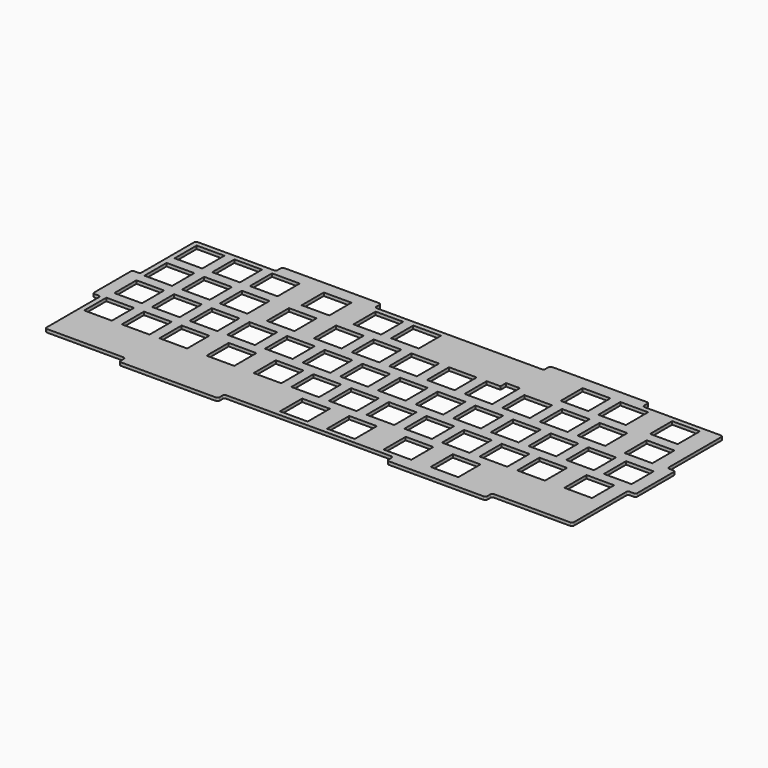
from build123d import *

# Parameters (mm, degrees)
SKETCH002_W     = 14
SKETCH002_H     = 14
PAD001_DEPTH    = 1.6
SKETCH003_W     = 14
SKETCH003_H     = 14
POCKET001_DEPTH = 5
SKETCH004_W     = 14
SKETCH004_H     = 14
POCKET002_DEPTH = 5
SKETCH005_W     = 14
SKETCH005_H     = 14
POCKET003_DEPTH = 5
SKETCH006_W     = 14
SKETCH006_H     = 14
POCKET004_DEPTH = 5
FILLET_R        = 1
SKETCH040_W     = 7
SKETCH040_H     = 3.5
POCKET021_DEPTH = 5


with BuildPart() as plate:
    # Sketch002 → Pad001 (new body)
    with BuildSketch(Plane.XY):
        Polygon((-133.35, 47.625), (-92.725, 47.625), (-92.725, 51.625), (-42.725, 51.625), (-42.725, 47.625), (42.725, 47.625), (42.725, 51.625), (92.725, 51.625), (92.725, 47.625), (133.35, 47.625), (133.35, 12.5), (137.35, 12.5), (137.35, -12.5), (133.35, -12.5), (133.35, -47.625), (92.725, -47.625), (92.725, -51.625), (42.725, -51.625), (42.725, -47.625), (-42.725, -47.625), (-42.725, -51.625), (-92.725, -51.625), (-92.725, -47.625), (-133.35, -47.625), (-133.35, -12.5), (-137.35, -12.5), (-137.35, 12.5), (-133.35, 12.5), align=None)
        with Locations((-71.4375, 38.1)):
            Rectangle(SKETCH002_W, SKETCH002_H, mode=Mode.SUBTRACT)
        with Locations((14.2875, 38.1)):
            Rectangle(SKETCH002_W, SKETCH002_H, mode=Mode.SUBTRACT)
        with Locations((33.3375, 38.1)):
            Rectangle(SKETCH002_W, SKETCH002_H, mode=Mode.SUBTRACT)
        with Locations((-90.4875, 38.1)):
            Rectangle(SKETCH002_W, SKETCH002_H, mode=Mode.SUBTRACT)
        with Locations((-116.68125, 38.1)):
            Rectangle(SKETCH002_W, SKETCH002_H, mode=Mode.SUBTRACT)
        with Locations((59.53125, 38.1)):
            Rectangle(SKETCH002_W, SKETCH002_H, mode=Mode.SUBTRACT)
        with Locations((85.725, 38.1)):
            Rectangle(SKETCH002_W, SKETCH002_H, mode=Mode.SUBTRACT)
        Polygon((97.775, 45.1), (111.775, 45.1), (111.775, 31.1), (97.77505, 31.1), align=None, mode=Mode.SUBTRACT)
        with Locations((123.825, 38.1)):
            Rectangle(SKETCH002_W, SKETCH002_H, mode=Mode.SUBTRACT)
    extrude(amount=-PAD001_DEPTH)

    # Sketch003 (on Face65 of Pad001) → Pocket001 (cut)
    with BuildSketch(Plane.XY):
        with Locations((-119.0625, 19.05)):
            Rectangle(SKETCH003_W, SKETCH003_H)
        with Locations((-95.25, 19.05)):
            Rectangle(SKETCH003_W, SKETCH003_H)
        with Locations((-57.15, 19.05)):
            Rectangle(SKETCH003_W, SKETCH003_H)
        with Locations((85.725, 19.05)):
            Rectangle(SKETCH003_W, SKETCH003_H)
        with Locations((-19.05, 19.05)):
            Rectangle(SKETCH003_W, SKETCH003_H)
        with Locations((38.1, 19.05)):
            Rectangle(SKETCH003_W, SKETCH003_H)
        with Locations((-76.2, 19.05)):
            Rectangle(SKETCH003_W, SKETCH003_H)
        with Locations((-38.1, 19.05)):
            Rectangle(SKETCH003_W, SKETCH003_H)
        with Locations((19.05, 19.05)):
            Rectangle(SKETCH003_W, SKETCH003_H)
        with Locations((104.775, 19.05)):
            Rectangle(SKETCH003_W, SKETCH003_H)
        with Locations((0, 19.05)):
            Rectangle(SKETCH003_W, SKETCH003_H)
        with Locations((61.9125, 19.05)):
            Rectangle(SKETCH003_W, SKETCH003_H)
        with Locations((123.825, 19.05)):
            Rectangle(SKETCH003_W, SKETCH003_H)
    extrude(amount=-POCKET001_DEPTH, mode=Mode.SUBTRACT)

    # Sketch004 (on Face4 of Pocket001) → Pocket002 (cut)
    with BuildSketch(Plane.XY):
        with Locations((-123.825, 0)):
            Rectangle(SKETCH004_W, SKETCH004_H)
        with Locations((-104.775, 0)):
            Rectangle(SKETCH004_W, SKETCH004_H)
        with Locations((-85.725, 0)):
            Rectangle(SKETCH004_W, SKETCH004_H)
        with Locations((-66.675, 0)):
            Rectangle(SKETCH004_W, SKETCH004_H)
        with Locations((-47.625, 0)):
            Rectangle(SKETCH004_W, SKETCH004_H)
        with Locations((-9.525, 0)):
            Rectangle(SKETCH004_W, SKETCH004_H)
        with Locations((9.525, 0)):
            Rectangle(SKETCH004_W, SKETCH004_H)
        with Locations((28.575, 0)):
            Rectangle(SKETCH004_W, SKETCH004_H)
        with Locations((47.625, 0)):
            Rectangle(SKETCH004_W, SKETCH004_H)
        with Locations((123.825, 0)):
            Rectangle(SKETCH004_W, SKETCH004_H)
        with Locations((66.675, 0)):
            Rectangle(SKETCH004_W, SKETCH004_H)
        with Locations((85.725, 0)):
            Rectangle(SKETCH004_W, SKETCH004_H)
        with Locations((104.775, 0)):
            Rectangle(SKETCH004_W, SKETCH004_H)
        with Locations((-28.575, 0)):
            Rectangle(SKETCH004_W, SKETCH004_H)
    extrude(amount=-POCKET002_DEPTH, mode=Mode.SUBTRACT)

    # Sketch005 (on Face4 of Pocket002) → Pocket003 (cut)
    with BuildSketch(Plane.XY):
        with Locations((-119.0625, -19.05)):
            Rectangle(SKETCH005_W, SKETCH005_H)
        with Locations((-95.25, -19.05)):
            Rectangle(SKETCH005_W, SKETCH005_H)
        with Locations((-57.15, -19.05)):
            Rectangle(SKETCH005_W, SKETCH005_H)
        with Locations((85.725, -19.05)):
            Rectangle(SKETCH005_W, SKETCH005_H)
        with Locations((-19.05, -19.05)):
            Rectangle(SKETCH005_W, SKETCH005_H)
        with Locations((38.1, -19.05)):
            Rectangle(SKETCH005_W, SKETCH005_H)
        with Locations((-76.2, -19.05)):
            Rectangle(SKETCH005_W, SKETCH005_H)
        with Locations((-38.1, -19.05)):
            Rectangle(SKETCH005_W, SKETCH005_H)
        with Locations((19.05, -19.05)):
            Rectangle(SKETCH005_W, SKETCH005_H)
        with Locations((123.825, -19.05)):
            Rectangle(SKETCH005_W, SKETCH005_H)
        with Locations((104.775, -19.05)):
            Rectangle(SKETCH005_W, SKETCH005_H)
        with Locations((0, -19.05)):
            Rectangle(SKETCH005_W, SKETCH005_H)
        with Locations((61.9125, -19.05)):
            Rectangle(SKETCH005_W, SKETCH005_H)
    extrude(amount=-POCKET003_DEPTH, mode=Mode.SUBTRACT)

    # Sketch006 (on Face4 of Pocket003) → Pocket004 (cut)
    with BuildSketch(Plane.XY):
        with Locations((-42.8625, -38.1)):
            Rectangle(SKETCH006_W, SKETCH006_H)
        with Locations((-14.2875, -38.1)):
            Rectangle(SKETCH006_W, SKETCH006_H)
        with Locations((9.525, -38.1)):
            Rectangle(SKETCH006_W, SKETCH006_H)
        with Locations((-66.675, -38.1)):
            Rectangle(SKETCH006_W, SKETCH006_H)
    extrude(amount=-POCKET004_DEPTH, mode=Mode.SUBTRACT)

    # Fillet
    fillet_edges = [plate.edges().sort_by_distance(p)[0] for p in [
        (-133.35, 47.625, -0.8),
        (-133.35, 12.5, -0.8),
        (-137.35, 12.5, -0.8),
        (-137.35, -12.5, -0.8),
        (137.35, 12.5, -0.8),
        (137.35, -12.5, -0.8),
        (133.35, -47.625, -0.8),
        (92.725, -47.625, -0.8),
        (92.725, -51.625, -0.8),
        (133.35, -12.5, -0.8),
        (-133.35, -47.625, -0.8),
        (-92.725, -47.625, -0.8),
        (-92.725, -51.625, -0.8),
        (-42.725, -51.625, -0.8),
        (42.725, -51.625, -0.8),
        (42.725, -47.625, -0.8),
        (-133.35, -12.5, -0.8),
        (-92.725, 47.625, -0.8),
        (-92.725, 51.625, -0.8),
        (-42.725, 51.625, -0.8),
        (42.725, 51.625, -0.8),
        (92.725, 51.625, -0.8),
        (42.725, 47.625, -0.8),
        (-42.725, 47.625, -0.8),
        (133.35, 47.625, -0.8),
        (92.725, 47.625, -0.8),
        (133.35, 12.5, -0.8),
        (-42.725, -47.625, -0.8),
    ]]
    fillet(fillet_edges, radius=FILLET_R)

    # Sketch040 (on Face2 of Fillet) → Pocket021 (cut)
    with BuildSketch(Plane.XY):
        with Locations((-41.6, 27.8)):
            Rectangle(SKETCH040_W, SKETCH040_H)
    extrude(amount=-POCKET021_DEPTH, mode=Mode.SUBTRACT)


with BuildPart() as part_mirroring002:
    # Part__Mirroring002: instance of Plate
    add(plate.part.mirror(Plane(origin=(0, 0, 0), x_dir=(0, -1, 0), z_dir=(1, 0, 0))))


solid = part_mirroring002.part
